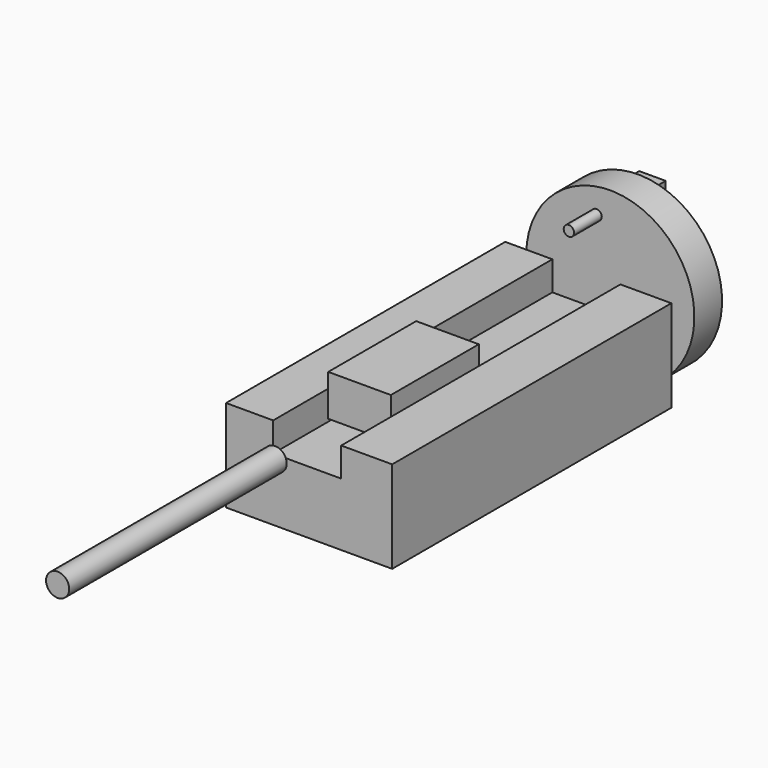
from build123d import *

# Parameters (mm, degrees)
F1_DEPTH  = 128.7553142756
F2_DEPTH  = 127.2883359343
F3_W      = 45.9532290697
F3_H      = 30.2736908197
F4_DEPTH  = 80.6518737227
F6_R      = 8.4859064115
F7_DEPTH  = 199.4947325438
F9_R      = 61.6834852397
F10_DEPTH = 25.4
F11_W     = 19.4302052259
F11_H     = 16.4499357343
F12_DEPTH = 25.4
F13_R     = 3.8043092938
F14_DEPTH = 25.4


with BuildPart() as f1:
    # F0 (on Front) → F1 (new body)
    with BuildSketch(Plane.XZ):
        Polygon((-22.2257003188, 36.5697443485), (-56.7990168929, 36.5697443485), (-56.7990168929, -30.943825841), (65.0972872972, -30.943825841), (65.0972872972, 36.5697443485), (27.7135372162, 36.5697443485), (27.7135372162, 15.1959657669), (-22.2257003188, 15.1959657669), align=None)
    extrude(amount=F1_DEPTH)

    # F2 (add): a face of the model
    f2_faces = [f1.faces().sort_by_distance(p)[0] for p in [
        (4.3585542487, 0, -0.6251406493),
    ]]
    extrude(f2_faces, amount=F2_DEPTH)


with BuildPart() as f4:
    # F3 (on Front) → F4 (new body)
    with BuildSketch(Plane.XZ):
        with Locations((2.6821345091, 33.8404327631)):
            Rectangle(F3_W, F3_H)
    extrude(amount=F4_DEPTH)


with BuildPart() as f7:
    # F6 (on offset) → F7 (new body)
    with BuildSketch(Plane.XZ.offset(154.7280419618)):
        with Locations((0, 29.2794629931)):
            Circle(F6_R)
    extrude(amount=F7_DEPTH)


with BuildPart() as f10:
    # F9 (on offset) → F10 (new body)
    with BuildSketch(Plane(origin=(0, 152.6883359343, 0), x_dir=(-1, 0, 0), z_dir=(0, 1, 0))):
        with Locations((0, 16.3338258862)):
            Circle(F9_R)
    extrude(amount=F10_DEPTH)

    # F11 (on face) → F12 (join)
    with BuildSketch(Plane(origin=(0, 178.0883359343, 0), x_dir=(-1, 0, 0), z_dir=(0, 1, 0))):
        with Locations((9.715102613, 55.2375279367)):
            Rectangle(F11_W, F11_H)
    extrude(amount=F12_DEPTH)

    # F13 (on face) → F14 (join)
    with BuildSketch(Plane.XZ.offset(-152.6883359343)):
        with Locations((-10.077342391, 58.8505342603)):
            Circle(F13_R)
    extrude(amount=F14_DEPTH)


solid = Compound([f1.part, f4.part, f7.part, f10.part])
